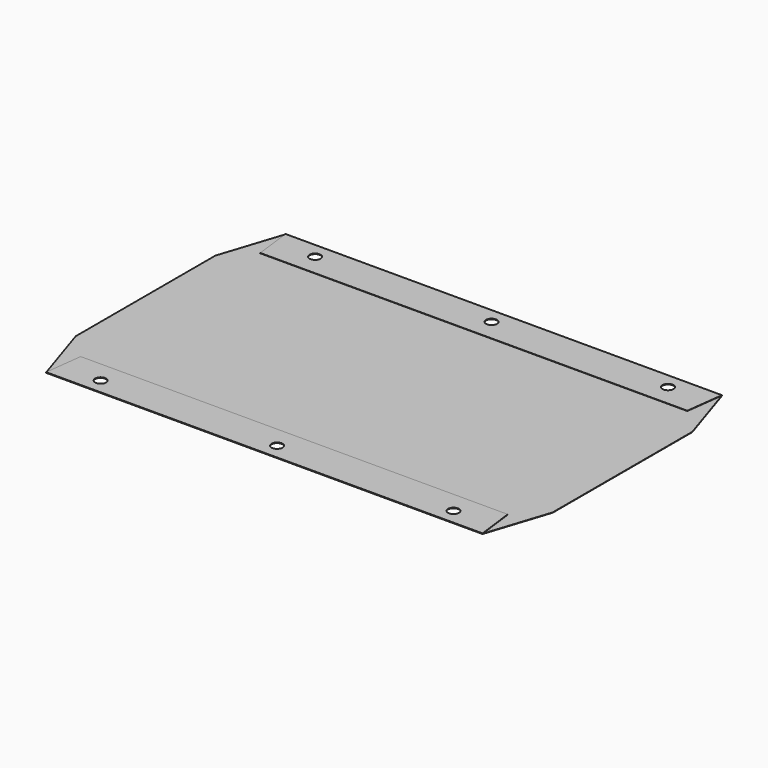
from build123d import *

# Parameters (mm, degrees)
F1_DEPTH = 0.5
F3_DEPTH = 0.5
F4_R     = 8.788165
F5_DEPTH = 1.001


with BuildPart() as f1:
    # F0 (on Top) → F1 (new body)
    with BuildSketch(Plane.XY):
        Polygon((0, 0), (-700, 0), (-732.5, -100), (-732.5, -240), (-732.5, -380), (-700, -480), (0, -480), (32.5, -380), (32.5, -240), (32.5, -100), align=None)
    extrude(amount=F1_DEPTH)

    # F2 (on face) → F3 (join)
    with BuildSketch(Plane.XY.offset(0.5)):
        Polygon((0, 0), (-700, 0), (-692.5, -60), (-7.5, -60), align=None)
        Polygon((-692.5, -420), (-700, -480), (0, -480), (-7.5, -420), align=None)
    extrude(amount=F3_DEPTH)

    # F4 (on face) → F5 (cut, through all)
    with BuildSketch(Plane.XY.offset(1)):
        with Locations((-632.5, -25)):
            Circle(F4_R)
        with Locations((-632.5, -455)):
            Circle(F4_R)
        with Locations((-349.5, -25)):
            Circle(F4_R)
        with Locations((-349.5, -455)):
            Circle(F4_R)
        with Locations((-66.5, -25)):
            Circle(F4_R)
        with Locations((-66.5, -455)):
            Circle(F4_R)
    extrude(amount=-F5_DEPTH, mode=Mode.SUBTRACT)


solid = f1.part
